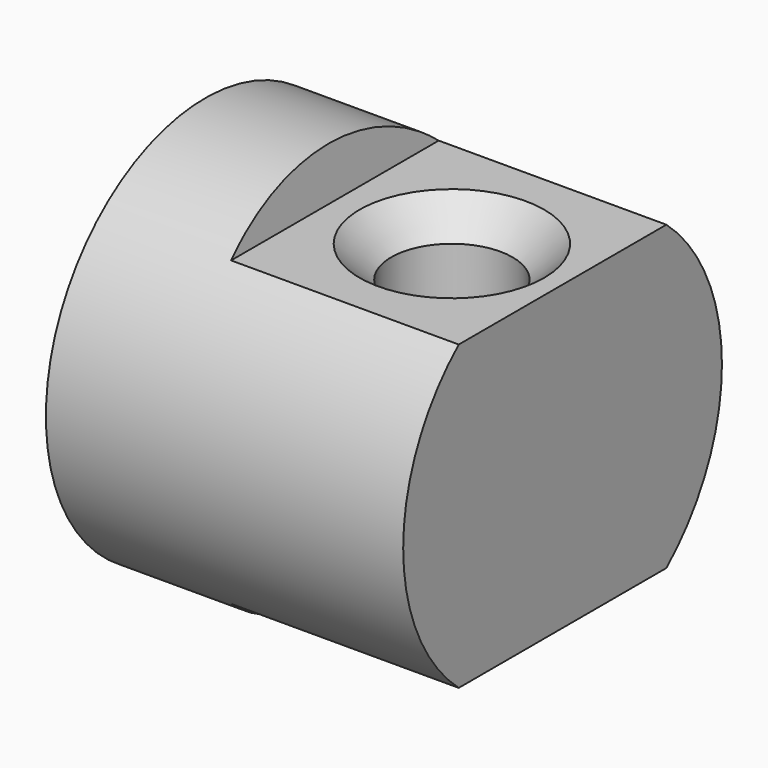
from build123d import *

# Parameters (mm, degrees)
F0_R          = 8.001
F1_DEPTH      = 14.351
F3_DEPTH      = 25.4
F3_DEPTH_BACK = 25.4
F4_R          = 2.4384
F5_DEPTH      = 25.4
F5_DEPTH_BACK = 25.4
F6_SIZE       = 1.27


with BuildPart() as f1:
    # F0 (on Right) → F1 (new body)
    with BuildSketch(Plane.YZ):
        Circle(F0_R)
    extrude(amount=F1_DEPTH)

    # F2 (on Front) → F3 (cut, two sides)
    with BuildSketch(Plane.XZ) as f3_sk:
        Polygon((14.351, 8.001), (4.953, 8.001), (5.207, 6.0706), (14.351, 6.0706), align=None)
        Polygon((4.953, -8.001), (14.351, -8.001), (14.351, -6.0706), (5.207, -6.0706), align=None)
    extrude(amount=-F3_DEPTH, mode=Mode.SUBTRACT)
    extrude(f3_sk.sketch, amount=F3_DEPTH_BACK, mode=Mode.SUBTRACT)

    # F4 (on Top) → F5 (cut, two sides)
    with BuildSketch(Plane.XY) as f5_sk:
        with Locations((9.906, 0)):
            Circle(F4_R)
    extrude(amount=-F5_DEPTH, mode=Mode.SUBTRACT)
    extrude(f5_sk.sketch, amount=F5_DEPTH_BACK, mode=Mode.SUBTRACT)

    # F6
    f6_edges = [f1.edges().sort_by_distance(p)[0] for p in [
        (7.4676, 0, 6.0706),
        (7.4676, 0, -6.0706),
    ]]
    chamfer(f6_edges, length=F6_SIZE)


solid = f1.part
